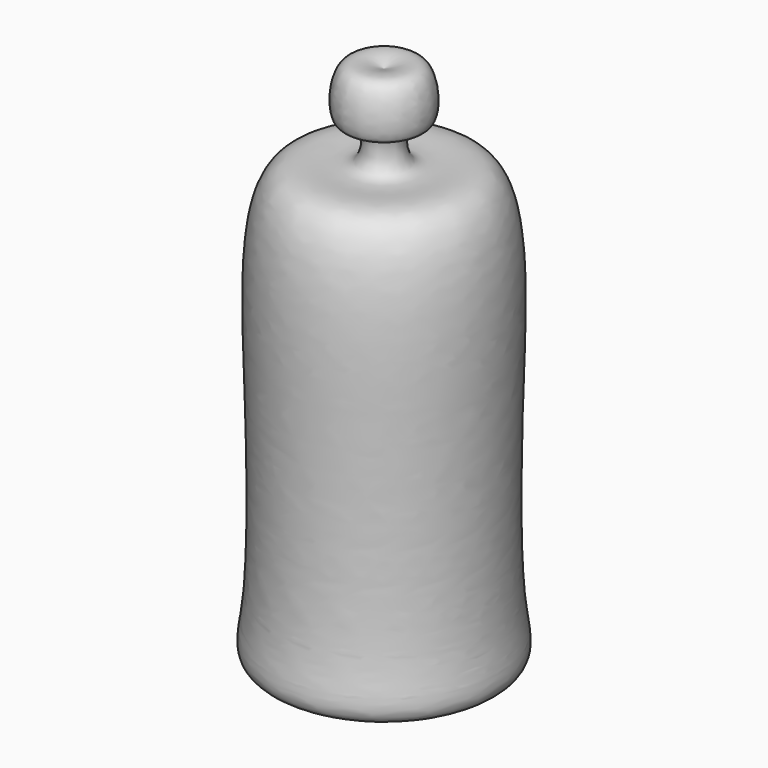
from build123d import *


with BuildPart() as f1:
    # F0 (on Front) → F1 (revolve)
    with BuildSketch(Plane.XZ):
        with BuildLine():
            Line((0, 10.8504779637), (0, 62.4014921486))
            add(Edge.make_bspline(
                [(0, 62.4014921486), (-1.3864395023, 62.8834429719), (-4.3343460819, 63.9081872905), (-4.4729626532, 56.7568612665), (-1.813631276, 58.9851952428), (-1.2135688876, 52.2769585488), (-11.6440646077, 56.9727502009), (-10.6648327966, 34.1907560237), (-10.4745884398, 16.12739273), (-12.2923592002, 9.6165777799), (-4.7126555797, 10.3774242161), (0, 10.8504779637)],
                knots=[0, 0, 0, 0, 0.0796346961, 0.1693226746, 0.2196881534, 0.2993228521, 0.4024989776, 0.5849903074, 0.7756771439, 0.8605280084, 1, 1, 1, 1], degree=3))
        make_face()
    revolve(axis=Axis((0, 0, 36.6259850562), (0, 0, -1)))


solid = f1.part
